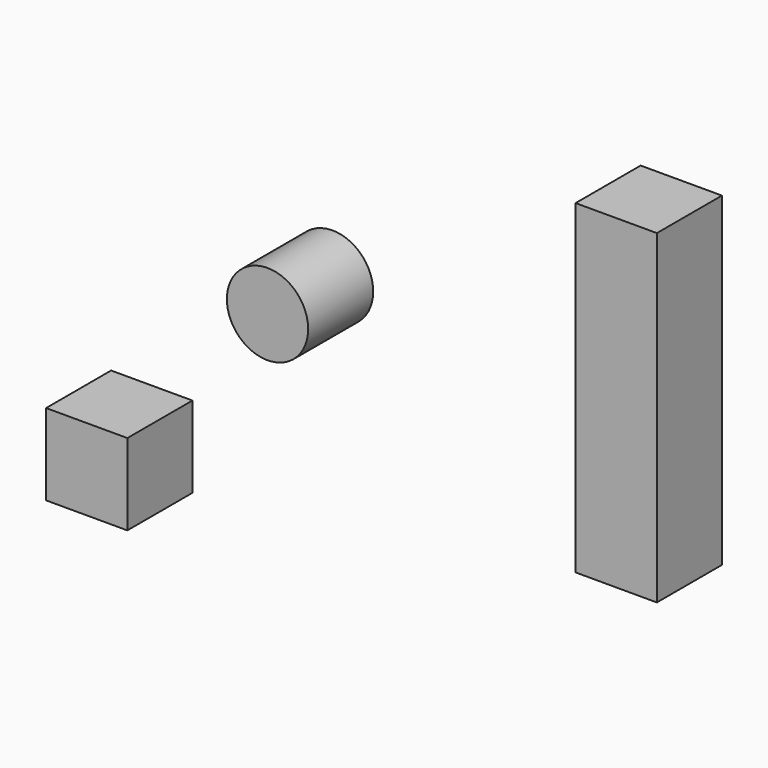
from build123d import *

# Parameters (mm, degrees)
F0_W     = 25.4
F0_H     = 25.4
F1_DEPTH = 25.4
F2_W     = 25.4
F2_H     = 25.4
F3_DEPTH = 101.6
F4_R     = 12.7
F5_DEPTH = 25.4


with BuildPart() as f1:
    # F0 (on Front) → F1 (new body)
    with BuildSketch(Plane.XZ):
        with Locations((-39.525672, 12.7)):
            Rectangle(F0_W, F0_H)
    extrude(amount=F1_DEPTH)


with BuildPart() as f3:
    # F2 (on Top) → F3 (new body)
    with BuildSketch(Plane.XY):
        with Locations((85.140519, 38.270074)):
            Rectangle(F2_W, F2_H)
    extrude(amount=F3_DEPTH)


with BuildPart() as f5:
    # F4 (on Front) → F5 (new body)
    with BuildSketch(Plane.XZ):
        with Locations((16.956391, 73.737822)):
            Circle(F4_R)
    extrude(amount=F5_DEPTH)


solid = Compound([f1.part, f3.part, f5.part])
